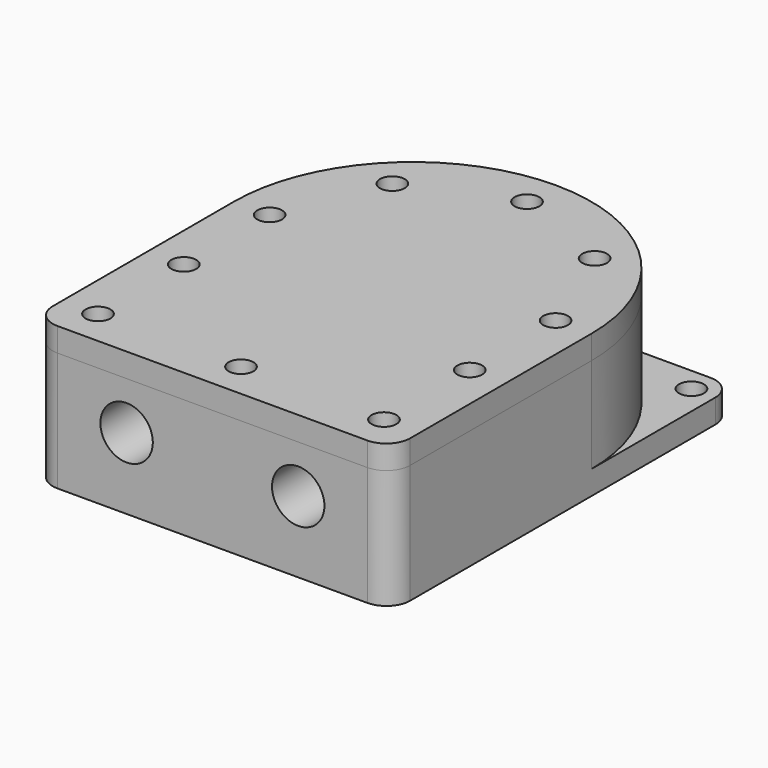
from build123d import *

# Parameters (mm, degrees)
F0_R      = 2.6
F0_R_2    = 25
F1_DEPTH  = 5
F2_DEPTH  = 20
F3_R      = 25
F4_DEPTH  = 5
F5_R      = 5
F5_2_R    = 5
F6_R      = 2
F7_DEPTH  = 15
F8_R      = 4
F9_DEPTH  = 20
F10_R     = 2.6
F11_DEPTH = 5
F12_R     = 5.5
F13_DEPTH = 50
F15_DEPTH = 16


with BuildPart() as f1:
    # F0 (on Top) → F1 (new body)
    with BuildSketch(Plane.XY):
        with BuildLine():
            ThreePointArc((-9.11e-08, 37.5), (26.5165042623, 26.5165043267), (37.5, 0))
            Line((37.5, 0), (37.5, 32.5))
            ThreePointArc((37.5, 32.5), (36.0355339059, 36.0355339059), (32.5, 37.5))
            Line((32.5, 37.5), (-9.11e-08, 37.5))
        make_face()
        with Locations((32.5, 32.5)):
            Circle(F0_R, mode=Mode.SUBTRACT)
        with BuildLine():
            ThreePointArc((-37.5, -1.672e-07), (-26.5165043858, 26.5165042031), (-9.11e-08, 37.5))
            Line((-9.11e-08, 37.5), (-32.5, 37.5))
            ThreePointArc((-32.5, 37.5), (-36.0355339059, 36.0355339059), (-37.5, 32.5))
            Line((-37.5, 32.5), (-37.5, -1.672e-07))
        make_face()
        with Locations((-32.5, 32.5)):
            Circle(F0_R, mode=Mode.SUBTRACT)
        with BuildLine():
            Line((37.5, -37.5), (37.5, 0))
            ThreePointArc((37.5, 0), (8.36e-08, -37.5), (-37.5, -1.672e-07))
            Line((-37.5, -1.672e-07), (-37.5, -37.5))
            Line((-37.5, -37.5), (-37.5, -52.5))
            Line((-37.5, -52.5), (37.5, -52.5))
            Line((37.5, -52.5), (37.5, -37.5))
        make_face()
        with BuildLine():
            ThreePointArc((-37.5, -1.672e-07), (8.36e-08, -37.5), (37.5, 0))
            ThreePointArc((37.5, 0), (26.5165042623, 26.5165043267), (-9.11e-08, 37.5))
            ThreePointArc((-9.11e-08, 37.5), (-26.5165043858, 26.5165042031), (-37.5, -1.672e-07))
        make_face()
        Circle(F0_R_2, mode=Mode.SUBTRACT)
        Circle(F0_R_2)
    extrude(amount=-F1_DEPTH)

    # F0 (on Top) → F2 (join)
    with BuildSketch(Plane.XY):
        with BuildLine():
            ThreePointArc((-37.5, -1.672e-07), (8.36e-08, -37.5), (37.5, 0))
            ThreePointArc((37.5, 0), (26.5165042623, 26.5165043267), (-9.11e-08, 37.5))
            ThreePointArc((-9.11e-08, 37.5), (-26.5165043858, 26.5165042031), (-37.5, -1.672e-07))
        make_face()
        Circle(F0_R_2, mode=Mode.SUBTRACT)
        with BuildLine():
            Line((37.5, -37.5), (37.5, 0))
            ThreePointArc((37.5, 0), (8.36e-08, -37.5), (-37.5, -1.672e-07))
            Line((-37.5, -1.672e-07), (-37.5, -37.5))
            Line((-37.5, -37.5), (-37.5, -52.5))
            Line((-37.5, -52.5), (37.5, -52.5))
            Line((37.5, -52.5), (37.5, -37.5))
        make_face()
    extrude(amount=F2_DEPTH)

    # F5
    f5_edges = [f1.edges().sort_by_distance(p)[0] for p in [
        (-37.5, -52.5, 7.5),
        (37.5, -52.5, 7.5),
    ]]
    fillet(f5_edges, radius=F5_R)


with BuildPart() as f4:
    # F3 (on face) → F4 (new body)
    with BuildSketch(Plane.XY.offset(20)):
        with BuildLine():
            Line((37.5, -52.5), (37.5, 0))
            ThreePointArc((37.5, 0), (0, 37.5), (-37.5, 0))
            Line((-37.5, 0), (-37.5, -52.5))
            Line((-37.5, -52.5), (37.5, -52.5))
        make_face()
        Circle(F3_R, mode=Mode.SUBTRACT)
        Circle(F3_R)
    extrude(amount=F4_DEPTH)

    # F5#2
    f5_2_edges = [f4.edges().sort_by_distance(p)[0] for p in [
        (-37.5, -52.5, 22.5),
        (37.5, -52.5, 22.5),
    ]]
    fillet(f5_2_edges, radius=F5_2_R)


with BuildPart() as f7_tool:
    # F6 (on face) → F7 (new body)
    with BuildSketch(Plane.XY.offset(25)):
        with Locations((-30, -45)):
            Circle(F6_R)
        with Locations((30, -45)):
            Circle(F6_R)
        with Locations((0, -45)):
            Circle(F6_R)
        with Locations((-30, 0)):
            Circle(F6_R)
        with Locations((30, 0)):
            Circle(F6_R)
        with Locations((30, -22.5)):
            Circle(F6_R)
        with Locations((-30, -22.5)):
            Circle(F6_R)
        with Locations((0, 30)):
            Circle(F6_R)
        with Locations((-21.2132034356, 21.2132034356)):
            Circle(F6_R)
        with Locations((21.2132034356, 21.2132034356)):
            Circle(F6_R)
    extrude(amount=-F7_DEPTH)


with BuildPart() as f1_1:
    add(f1.part)

    # F7: cut by f7_tool
    add(f7_tool.part, mode=Mode.SUBTRACT)

    # F8 (on Top) → F9 (join)
    with BuildSketch(Plane.XY):
        Circle(F8_R)
    extrude(amount=F9_DEPTH)

    # F12 (on face) → F13 (cut)
    with BuildSketch(Plane.XZ.offset(52.5)):
        with Locations((-18, 10)):
            Circle(F12_R)
        with Locations((18, 10)):
            Circle(F12_R)
    extrude(amount=-F13_DEPTH, mode=Mode.SUBTRACT)


with BuildPart() as f4_1:
    add(f4.part)

    # F7: cut by f7_tool
    add(f7_tool.part, mode=Mode.SUBTRACT)

    # F10 (on face) → F11 (cut)
    with BuildSketch(Plane.XY.offset(25)):
        with Locations((-30, -45)):
            Circle(F10_R)
        with Locations((0, -45)):
            Circle(F10_R)
        with Locations((-30, -22.5)):
            Circle(F10_R)
        with Locations((30, -45)):
            Circle(F10_R)
        with Locations((30, -22.5)):
            Circle(F10_R)
        with Locations((30, 0)):
            Circle(F10_R)
        with Locations((21.2132034356, 21.2132034356)):
            Circle(F10_R)
        with Locations((0, 30)):
            Circle(F10_R)
        with Locations((-21.2132034356, 21.2132034356)):
            Circle(F10_R)
        with Locations((-30, 0)):
            Circle(F10_R)
    extrude(amount=-F11_DEPTH, mode=Mode.SUBTRACT)


with BuildPart() as f15:
    # F14 (on face) → F15 (new body)
    with BuildSketch(Plane.XY):
        with BuildLine():
            ThreePointArc((2, 22), (0, 24), (-2, 22))
            Line((-2, 22), (-2, 8.9302855497))
            ThreePointArc((-2, 8.9302855497), (-2.3713267043, 7.6192744895), (-3.375, 6.6977141623))
            ThreePointArc((-3.375, 6.6977141623), (-3.75, 6.4951905284), (-4.1128906118, 6.2716928189))
            ThreePointArc((-4.1128906118, 6.2716928189), (-5.4128219142, 5.8632664113), (-6.7338541491, 6.1971935824))
            Line((-6.7338541491, 6.1971935824), (-18.0525588833, 12.7320508076))
            ThreePointArc((-18.0525588833, 12.7320508076), (-20.7846096908, 12), (-20.0525588833, 9.2679491924))
            Line((-20.0525588833, 9.2679491924), (-8.7338541491, 2.7330919673))
            ThreePointArc((-8.7338541491, 2.7330919673), (-7.7841486185, 1.7560080782), (-7.4878906118, 0.4260213434))
            ThreePointArc((-7.4878906118, 0.4260213434), (-7.5, 0), (-7.4878906118, -0.4260213434))
            ThreePointArc((-7.4878906118, -0.4260213434), (-7.7841486185, -1.7560080782), (-8.7338541491, -2.7330919673))
            Line((-8.7338541491, -2.7330919673), (-20.0525588833, -9.2679491924))
            ThreePointArc((-20.0525588833, -9.2679491924), (-20.7846096908, -12), (-18.0525588833, -12.7320508076))
            Line((-18.0525588833, -12.7320508076), (-6.7338541491, -6.1971935824))
            ThreePointArc((-6.7338541491, -6.1971935824), (-5.4128219142, -5.8632664113), (-4.1128906118, -6.2716928189))
            ThreePointArc((-4.1128906118, -6.2716928189), (-3.75, -6.4951905284), (-3.375, -6.6977141623))
            ThreePointArc((-3.375, -6.6977141623), (-2.3713267043, -7.6192744895), (-2, -8.9302855497))
            Line((-2, -8.9302855497), (-2, -22))
            ThreePointArc((-2, -22), (0, -24), (2, -22))
            Line((2, -22), (2, -8.9302855497))
            ThreePointArc((2, -8.9302855497), (2.3713267043, -7.6192744895), (3.375, -6.6977141623))
            ThreePointArc((3.375, -6.6977141623), (3.75, -6.4951905284), (4.1128906118, -6.2716928189))
            ThreePointArc((4.1128906118, -6.2716928189), (5.4128219142, -5.8632664113), (6.7338541491, -6.1971935824))
            Line((6.7338541491, -6.1971935824), (18.0525588833, -12.7320508076))
            ThreePointArc((18.0525588833, -12.7320508076), (20.7846096908, -12), (20.0525588833, -9.2679491924))
            Line((20.0525588833, -9.2679491924), (8.7338541491, -2.7330919673))
            ThreePointArc((8.7338541491, -2.7330919673), (7.7841486185, -1.7560080782), (7.4878906118, -0.4260213434))
            ThreePointArc((7.4878906118, -0.4260213434), (7.5, 0), (7.4878906118, 0.4260213434))
            ThreePointArc((7.4878906118, 0.4260213434), (7.7841486185, 1.7560080782), (8.7338541491, 2.7330919673))
            Line((8.7338541491, 2.7330919673), (20.0525588833, 9.2679491924))
            ThreePointArc((20.0525588833, 9.2679491924), (20.7846096908, 12), (18.0525588833, 12.7320508076))
            Line((18.0525588833, 12.7320508076), (6.7338541491, 6.1971935824))
            ThreePointArc((6.7338541491, 6.1971935824), (5.4128219142, 5.8632664113), (4.1128906118, 6.2716928189))
            ThreePointArc((4.1128906118, 6.2716928189), (3.75, 6.4951905284), (3.375, 6.6977141623))
            ThreePointArc((3.375, 6.6977141623), (2.3713267043, 7.6192744895), (2, 8.9302855497))
            Line((2, 8.9302855497), (2, 22))
        make_face()
        with BuildLine():
            ThreePointArc((0, 4.25), (3.00520382, 3.00520382), (4.25, 0))
            ThreePointArc((4.25, 0), (-3.00520382, -3.00520382), (0, 4.25))
        make_face(mode=Mode.SUBTRACT)
    extrude(amount=F15_DEPTH)


solid = Compound([f1_1.part, f4_1.part, f15.part])
